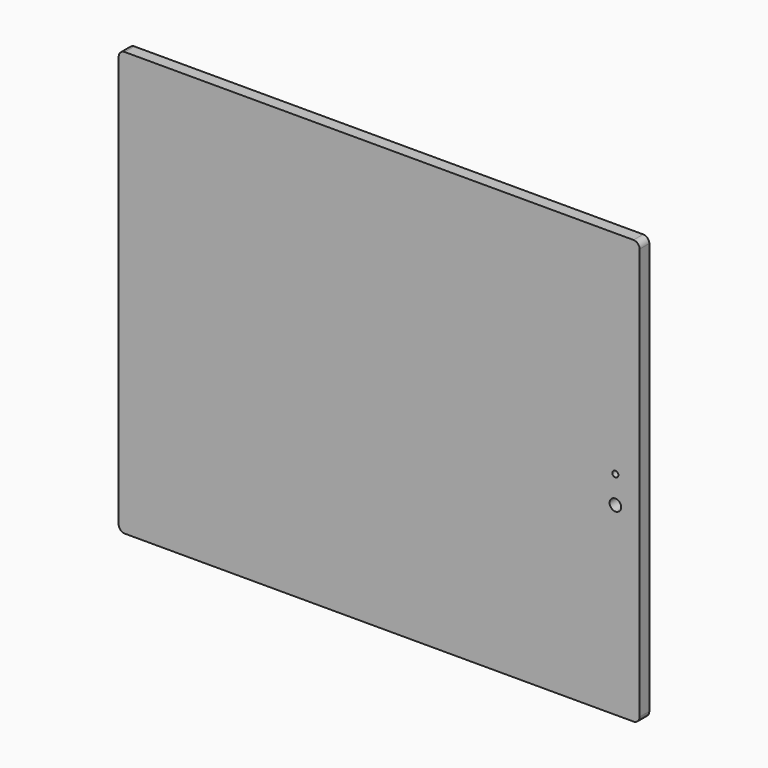
from build123d import *

# Parameters (mm, degrees)
F0_W     = 860
F0_H     = 700
F1_DEPTH = 20
F2_R     = 5
F3_DEPTH = 20.001
F4_R     = 9.5
F5_DEPTH = 20.001
F6_R     = 10


with BuildPart() as f1:
    # F0 (on Front) → F1 (new body)
    with BuildSketch(Plane.XZ):
        Rectangle(F0_W, F0_H)
    extrude(amount=F1_DEPTH)

    # F2 (on face) → F3 (cut, through all)
    with BuildSketch(Plane.XZ.offset(20)):
        with Locations((390, 0)):
            Circle(F2_R)
    extrude(amount=-F3_DEPTH, mode=Mode.SUBTRACT)

    # F4 (on face) → F5 (cut, through all)
    with BuildSketch(Plane.XZ.offset(20)):
        with Locations((390, -45)):
            Circle(F4_R)
    extrude(amount=-F5_DEPTH, mode=Mode.SUBTRACT)

    # F6
    f6_edges = [f1.edges().sort_by_distance(p)[0] for p in [
        (430, -10, 350),
        (430, -10, -350),
        (-430, -10, 350),
        (-430, -10, -350),
    ]]
    fillet(f6_edges, radius=F6_R)


solid = f1.part
